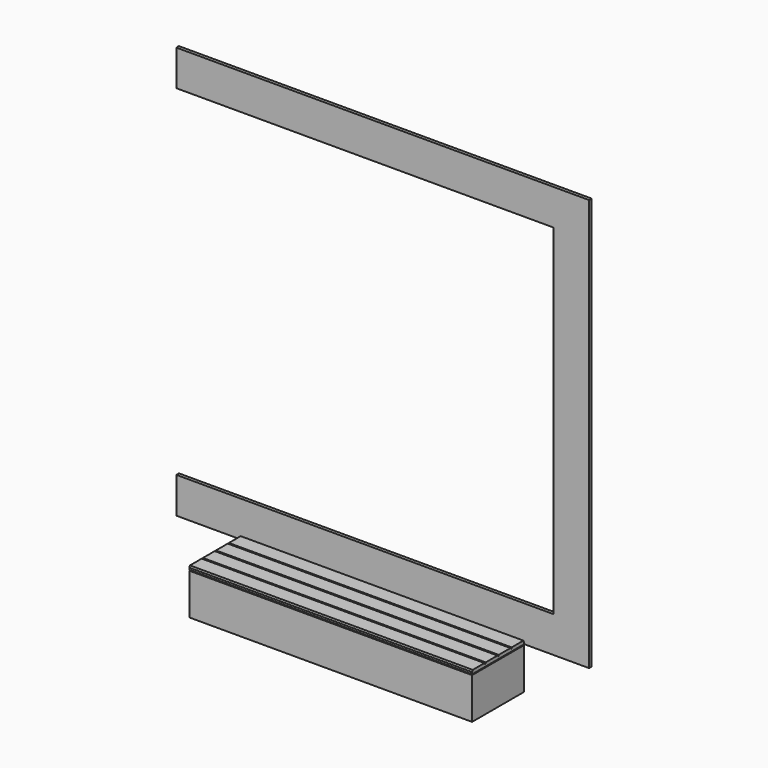
from build123d import *

# Parameters (mm, degrees)
F1_DEPTH = 20
F2_W     = 1740
F2_H     = 21.2428141385
F2_H_2   = 258.7571858615
F3_DEPTH = 400
F5_DEPTH = 1740
F6_SIZE2 = 10
F6_SIZE  = 5
F7_SIZE2 = 5
F7_SIZE  = 10
F9_DEPTH = 400


with BuildPart() as f1:
    # F0 (on Front) → F1 (new body)
    with BuildSketch(Plane.XZ):
        Polygon((2540, 2550), (0, 2550), (0, 2330), (2320, 2330), (2320, 235.6703919172), (0, 235.6703919172), (0, 14.4275780767), (2540, 14.4275780767), align=None)
    extrude(amount=F1_DEPTH)


with BuildPart() as f3:
    # F2 (on face) → F3 (new body)
    with BuildSketch(Plane.XZ.offset(20)):
        with Locations((1270, 25.048985146)):
            Rectangle(F2_W, F2_H)
        with Locations((1270, -114.951014854)):
            Rectangle(F2_W, F2_H_2)
    extrude(amount=F3_DEPTH)

    # F4 (on face) → F5 (cut, through all)
    with BuildSketch(Plane(origin=(400, 0, 0), x_dir=(0, -1, 0), z_dir=(-1, 0, 0))):
        Polygon((324.7329890728, 35.6703922153), (315.450578928, 35.6703922153), (320, 25.6703922153), align=None)
        Polygon((224.7101962566, 35.6703922153), (220, 35.6703922153), (215.2383476496, 35.6703922153), (220, 25.6703922153), align=None)
        Polygon((120, 25.6703922153), (124.6874108911, 35.6703922153), (115.5944317579, 35.6703922153), align=None)
    extrude(amount=-F5_DEPTH, mode=Mode.SUBTRACT)

    # F6
    f6_edges = [f3.edges().sort_by_distance(p)[0] for p in [
        (1270, -420, 35.670392),
    ]]
    f6_side = f3.faces().sort_by_distance((1270, -372.366495, 35.670392))[0]
    chamfer(f6_edges, length=F6_SIZE, length2=F6_SIZE2, reference=f6_side)

    # F7
    f7_edges = [f3.edges().sort_by_distance(p)[0] for p in [
        (1270, -20, 35.670392),
    ]]
    f7_side = f3.faces().sort_by_distance((1270, -20, -104.329608))[0]
    chamfer(f7_edges, length=F7_SIZE, length2=F7_SIZE2, reference=f7_side)

    # F8 (on face) → F9 (cut, through all)
    with BuildSketch(Plane.XZ.offset(420)):
        Polygon((410, 13.9794712886), (400, 13.9794712886), (400, 8.9794712886), (410, 8.9794712886), (2130, 8.9794712886), (2140, 8.9794712886), (2140, 13.9794712886), (2130, 13.9794712886), align=None)
    extrude(amount=-F9_DEPTH, mode=Mode.SUBTRACT)


solid = Compound([f1.part, f3.part])
